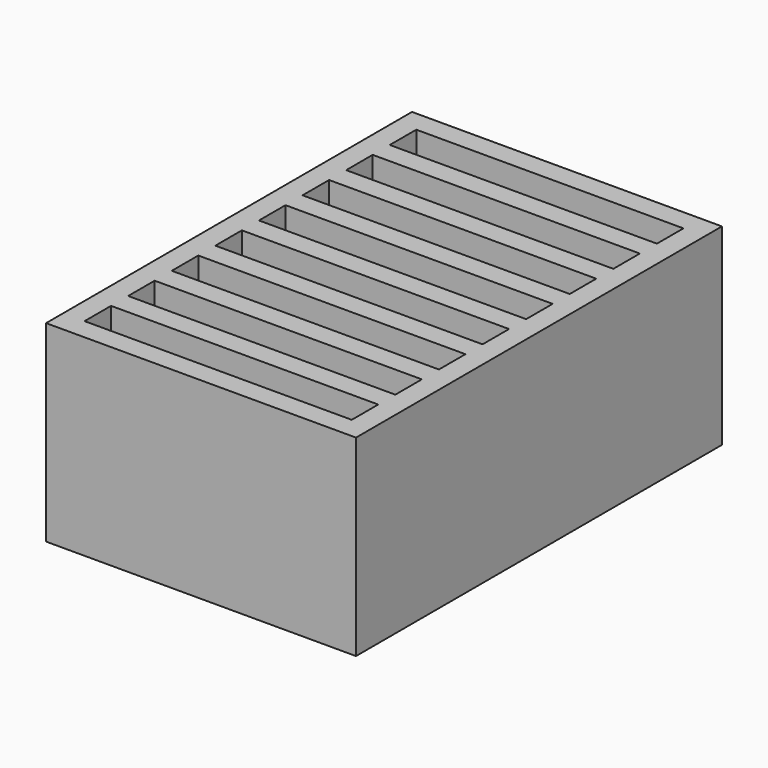
from build123d import *

# Parameters (mm, degrees)
SKETCH_W     = 29
SKETCH_H     = 42.8
PAD_DEPTH    = 18
SKETCH001_W  = 25
SKETCH001_H  = 3.1
POCKET_DEPTH = 16


with BuildPart() as part:
    # Sketch → Pad (new body)
    with BuildSketch(Plane.XY):
        Rectangle(SKETCH_W, SKETCH_H)
    extrude(amount=PAD_DEPTH)

    # Sketch001 (on Face6 of Pad) → Pocket (cut)
    with BuildSketch(Plane.XY.offset(18)):
        with Locations((0, 17.85)):
            Rectangle(SKETCH001_W, SKETCH001_H)
        with Locations((0, 12.75)):
            Rectangle(SKETCH001_W, SKETCH001_H)
        with Locations((0, 7.65)):
            Rectangle(SKETCH001_W, SKETCH001_H)
        with Locations((0, 2.55)):
            Rectangle(SKETCH001_W, SKETCH001_H)
        with Locations((0, -17.85)):
            Rectangle(SKETCH001_W, SKETCH001_H)
        with Locations((0, -12.75)):
            Rectangle(SKETCH001_W, SKETCH001_H)
        with Locations((0, -7.65)):
            Rectangle(SKETCH001_W, SKETCH001_H)
        with Locations((0, -2.55)):
            Rectangle(SKETCH001_W, SKETCH001_H)
    extrude(amount=-POCKET_DEPTH, mode=Mode.SUBTRACT)


solid = part.part
